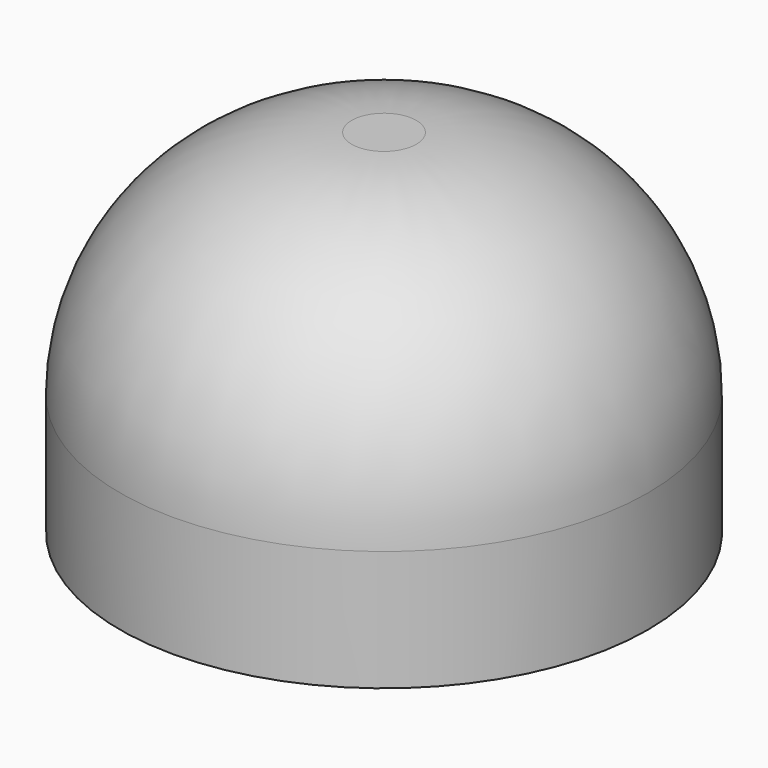
from build123d import *

# Parameters (mm, degrees)
F0_R     = 43.4220747745
F1_DEPTH = 25.4
F2_DEPTH = 32.512
F3_R     = 38.1


with BuildPart() as f1:
    # F0 (on Top) → F1 (new body)
    with BuildSketch(Plane.XY):
        Circle(F0_R)
    extrude(amount=F1_DEPTH)

    # F2 (add): a face of the model
    f2_faces = [f1.faces().sort_by_distance(p)[0] for p in [
        (0, 0, 25.4),
    ]]
    extrude(f2_faces, amount=F2_DEPTH)

    # F3
    f3_edges = [f1.edges().sort_by_distance(p)[0] for p in [
        (-43.422075, 0, 57.912),
    ]]
    fillet(f3_edges, radius=F3_R)


solid = f1.part
